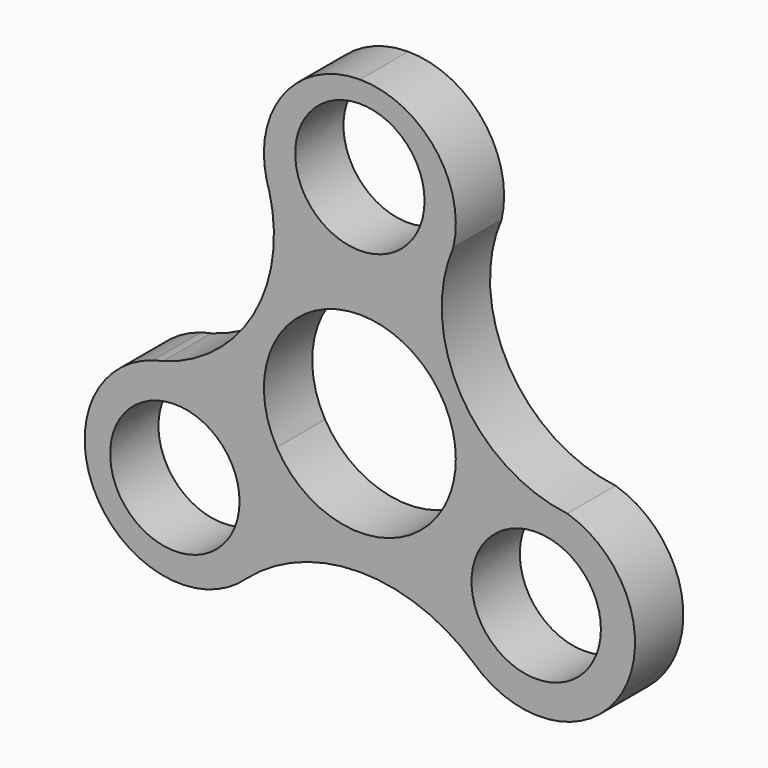
from build123d import *

# Parameters (mm, degrees)
F1_DEPTH = 7
F2_R     = 7.5
F3_DEPTH = 47.6


with BuildPart() as f1:
    # F0 (on Front) → F1 (new body)
    with BuildSketch(Plane.XZ):
        with BuildLine():
            ThreePointArc((0, 11.125), (7.866563, 7.866563), (11.125, 0))
            ThreePointArc((11.125, 0), (10.745925, -2.879362), (9.634533, -5.5625))
            Line((9.634533, -5.5625), (30.419142, -17.5625))
            ThreePointArc((30.419142, -17.5625), (31.137901, -7.928761), (24.049755, -1.364942))
            ThreePointArc((24.049755, -1.364942), (11.696795, 6.753148), (10.842803, 21.51017))
            ThreePointArc((10.842803, 21.51017), (8.702442, 30.930594), (0, 35.125))
            Line((0, 35.125), (0, 11.125))
        make_face()
        with BuildLine():
            ThreePointArc((-9.634533, -5.5625), (-9.634533, 5.5625), (0, 11.125))
            Line((0, 11.125), (0, 35.125))
            ThreePointArc((0, 35.125), (-8.702442, 30.930594), (-10.842803, 21.51017))
            ThreePointArc((-10.842803, 21.51017), (-10.660456, 20.918313), (-10.498883, 20.32045))
            ThreePointArc((-10.498883, 20.32045), (-12.339117, 7.123992), (-22.847468, -1.067926))
            ThreePointArc((-22.847468, -1.067926), (-23.446018, -1.226931), (-24.049755, -1.364942))
            ThreePointArc((-24.049755, -1.364942), (-31.137901, -7.928761), (-30.419142, -17.5625))
            Line((-30.419142, -17.5625), (-9.634533, -5.5625))
        make_face()
        with BuildLine():
            Line((30.419142, -17.5625), (9.634533, -5.5625))
            ThreePointArc((9.634533, -5.5625), (0, -11.125), (-9.634533, -5.5625))
            Line((-9.634533, -5.5625), (-30.419142, -17.5625))
            ThreePointArc((-30.419142, -17.5625), (-22.435459, -23.001833), (-13.206952, -20.145228))
            ThreePointArc((-13.206952, -20.145228), (0, -15.150958), (13.206952, -20.145228))
            ThreePointArc((13.206952, -20.145228), (22.435459, -23.001833), (30.419142, -17.5625))
        make_face()
        with BuildLine():
            ThreePointArc((-10.498883, 20.32045), (-10.660456, 20.918313), (-10.842803, 21.51017))
            ThreePointArc((-10.842803, 21.51017), (-10.68741, 20.910521), (-10.498883, 20.32045))
        make_face()
        with BuildLine():
            ThreePointArc((-22.847468, -1.067926), (-23.452747, -1.199691), (-24.049755, -1.364942))
            ThreePointArc((-24.049755, -1.364942), (-23.446018, -1.226931), (-22.847468, -1.067926))
        make_face()
    extrude(amount=F1_DEPTH)

    # F2 (on Front) → F3 (cut)
    with BuildSketch(Plane.XZ):
        with Locations((20.449737, -11.921206)):
            Circle(F2_R)
        with Locations((-21.451427, -12.500484)):
            Circle(F2_R)
        with Locations((0, 25.152633)):
            Circle(F2_R)
    extrude(amount=F3_DEPTH, mode=Mode.SUBTRACT)


solid = f1.part
